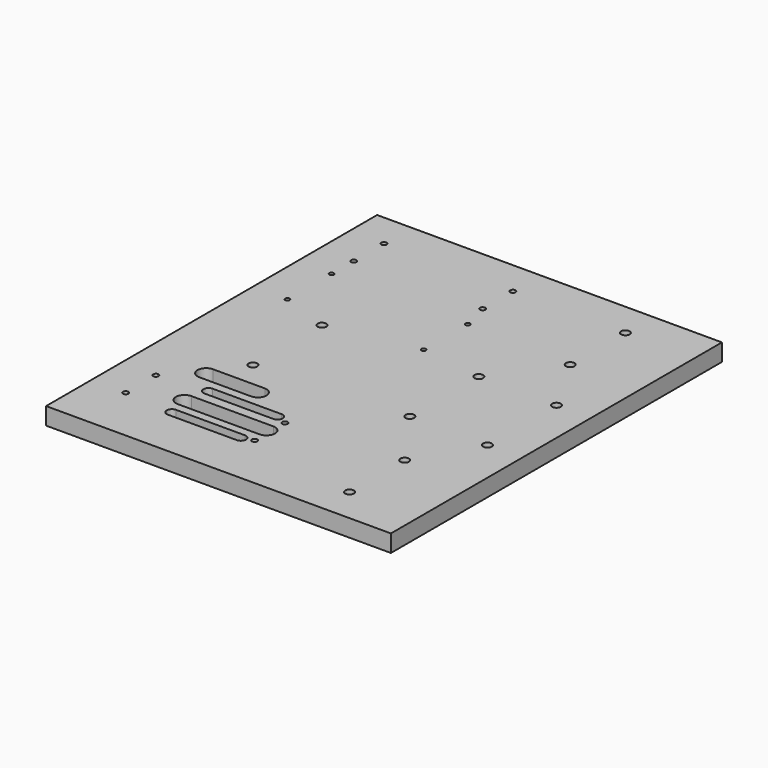
from build123d import *

# Parameters (mm, degrees)
F0_W     = 254
F0_H     = 304.8
F1_DEPTH = 12.7
F2_R     = 1.9812
F2_R_2   = 1.649997
F2_R_3   = 3.175
F2_W     = 50.8
F2_H     = 7.62
F2_W_2   = 38.1
F2_H_2   = 12.7
F3_DEPTH = 25.4


with BuildPart() as f1:
    # F0 (on Top) → F1 (new body)
    with BuildSketch(Plane.XY):
        Rectangle(F0_W, F0_H)
    extrude(amount=F1_DEPTH)

    # F2 (on face) → F3 (cut)
    with BuildSketch(Plane.XY.offset(12.7)):
        with Locations((-101.6, 127)):
            Circle(F2_R)
        with Locations((-101.6, 99.114788)):
            Circle(F2_R)
        with Locations((-6.609004, 127)):
            Circle(F2_R)
        with Locations((-6.609004, 99.114788)):
            Circle(F2_R)
        with Locations((-101.6, -82.973088)):
            Circle(F2_R)
        with Locations((-6.609004, -82.973088)):
            Circle(F2_R)
        with Locations((-6.609004, -110.8583)):
            Circle(F2_R)
        with Locations((-101.6, -110.8583)):
            Circle(F2_R)
        with Locations((-101.6, 78.74)):
            Circle(F2_R_2)
        with Locations((-101.6, 38.11999)):
            Circle(F2_R_2)
        with Locations((-66.04, 25.4)):
            Circle(F2_R_3)
        with Locations((-66.04, -38.1)):
            Circle(F2_R_3)
        with Locations((76.2, -76.2)):
            Circle(F2_R_3)
        with Locations((76.2, -127)):
            Circle(F2_R_3)
        with Locations((76.2, 127)):
            Circle(F2_R_3)
        with Locations((76.2, 76.2)):
            Circle(F2_R_3)
        with Locations((44.45, 31.75)):
            Circle(F2_R_3)
        with Locations((101.6, 31.75)):
            Circle(F2_R_3)
        with Locations((44.45, -31.75)):
            Circle(F2_R_3)
        with Locations((101.6, -31.75)):
            Circle(F2_R_3)
        Polygon((-9.149004, -90.491488), (-69.474004, -90.491488), (-69.474004, -96.841488), (-69.474004, -103.191488), (-9.149004, -103.191488), align=None)
        with BuildLine():
            Line((-69.474004, -96.841488), (-69.474004, -90.491488))
            ThreePointArc((-69.474004, -90.491488), (-75.824004, -96.841488), (-69.474004, -103.191488))
            Line((-69.474004, -103.191488), (-69.474004, -96.841488))
        make_face()
        with BuildLine():
            ThreePointArc((-9.149004, -103.191488), (-2.799004, -96.841488), (-9.149004, -90.491488))
            Line((-9.149004, -90.491488), (-9.149004, -103.191488))
        make_face()
        with Locations((-40.264004, -113.1951)):
            Rectangle(F2_W, F2_H)
        with BuildLine():
            Line((-65.664004, -117.0051), (-65.664004, -109.3851))
            ThreePointArc((-65.664004, -109.3851), (-69.474004, -113.1951), (-65.664004, -117.0051))
        make_face()
        with BuildLine():
            ThreePointArc((-14.864004, -117.0051), (-11.054004, -113.1951), (-14.864004, -109.3851))
            Line((-14.864004, -109.3851), (-14.864004, -117.0051))
        make_face()
        with Locations((-61.595, -62.957888)):
            Rectangle(F2_W_2, F2_H_2)
        with BuildLine():
            Line((-80.645, -69.307888), (-80.645, -56.607888))
            ThreePointArc((-80.645, -56.607888), (-86.995, -62.957888), (-80.645, -69.307888))
        make_face()
        with BuildLine():
            ThreePointArc((-42.545, -69.307888), (-36.195, -62.957888), (-42.545, -56.607888))
            Line((-42.545, -56.607888), (-42.545, -69.307888))
        make_face()
        with Locations((-40.264004, -79.467888)):
            Rectangle(F2_W, F2_H)
        with BuildLine():
            Line((-65.664004, -83.277888), (-65.664004, -75.657888))
            ThreePointArc((-65.664004, -75.657888), (-69.474004, -79.467888), (-65.664004, -83.277888))
        make_face()
        with BuildLine():
            ThreePointArc((-14.864004, -83.277888), (-11.054004, -79.467888), (-14.864004, -75.657888))
            Line((-14.864004, -75.657888), (-14.864004, -83.277888))
        make_face()
        with Locations((-1.28999, 78.74)):
            Circle(F2_R_2)
        with Locations((-1.28999, 38.11999)):
            Circle(F2_R_2)
    extrude(amount=-F3_DEPTH, mode=Mode.SUBTRACT)


solid = f1.part
